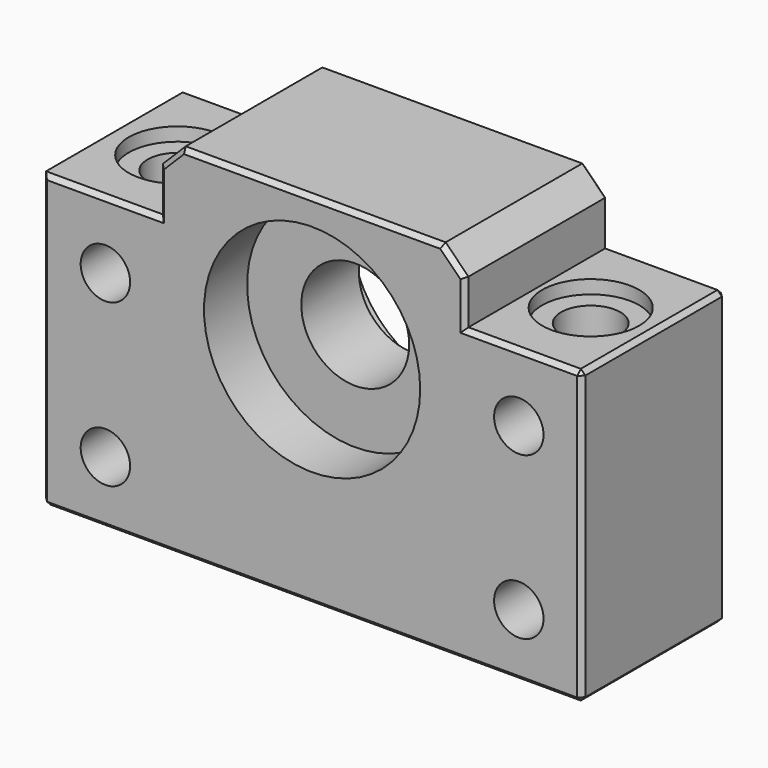
from build123d import *

# Parameters (mm, degrees)
F1_DEPTH  = 20
F2_R      = 6
F2_R_2    = 2.75
F3_DEPTH  = 20.001
F4_R      = 5.4
F5_DEPTH  = 1.5
F6_R      = 3.3
F7_DEPTH  = 31.001
F8_R      = 12.0269
F9_DEPTH  = 6
F10_R     = 11.6713
F11_DEPTH = 6
F12_SIZE  = 2.54
F13_SIZE  = 0.5


with BuildPart() as f1:
    # F0 (on Front) → F1 (new body)
    with BuildSketch(Plane.XZ):
        Polygon((-30, -16.25), (30, -16.25), (30, 16.25), (17, 16.25), (17, 23.75), (-17, 23.75), (-17, 16.25), (-30, 16.25), align=None)
    extrude(amount=F1_DEPTH)

    # F2 (on face) → F3 (cut, through all)
    with BuildSketch(Plane.XZ.offset(20)):
        with Locations((0, 8.75)):
            Circle(F2_R)
        with Locations((-23, 8.75)):
            Circle(F2_R_2)
        with Locations((-23, -9.25)):
            Circle(F2_R_2)
        with Locations((23, 8.75)):
            Circle(F2_R_2)
        with Locations((23, -9.25)):
            Circle(F2_R_2)
    extrude(amount=-F3_DEPTH, mode=Mode.SUBTRACT)

    # F4 (on face) → F5 (cut)
    with BuildSketch(Plane.XY.offset(16.25)):
        with Locations((-23, -10)):
            Circle(F4_R)
        with Locations((23, -10)):
            Circle(F4_R)
    extrude(amount=-F5_DEPTH, mode=Mode.SUBTRACT)

    # F6 (on face) → F7 (cut, through all)
    with BuildSketch(Plane.XY.offset(14.75)):
        with Locations((-23, -10)):
            Circle(F6_R)
        with Locations((23, -10)):
            Circle(F6_R)
    extrude(amount=-F7_DEPTH, mode=Mode.SUBTRACT)

    # F8 (on face) → F9 (cut)
    with BuildSketch(Plane.XZ.offset(20)):
        with Locations((0, 8.75)):
            Circle(F8_R)
    extrude(amount=-F9_DEPTH, mode=Mode.SUBTRACT)

    # F10 (on face) → F11 (cut)
    with BuildSketch(Plane(origin=(0, 0, 0), x_dir=(-1, 0, 0), z_dir=(0, 1, 0))):
        with Locations((0, 8.75)):
            Circle(F10_R)
    extrude(amount=-F11_DEPTH, mode=Mode.SUBTRACT)

    # F12
    f12_edges = [f1.edges().sort_by_distance(p)[0] for p in [
        (17, -10, 23.75),
        (-17, -10, 23.75),
    ]]
    chamfer(f12_edges, length=F12_SIZE)

    # F13
    f13_edges = [f1.edges().sort_by_distance(p)[0] for p in [
        (23.5, 0, 16.25),
        (17, 0, 18.73),
        (15.73, 0, 22.48),
        (0, 0, 23.75),
        (-15.73, 0, 22.48),
        (-17, 0, 18.73),
        (-23.5, 0, 16.25),
        (-30, 0, 0),
        (0, 0, -16.25),
        (30, 0, 0),
        (30, -10, 16.25),
        (30, -20, 0),
        (30, -10, -16.25),
        (23.5, -20, 16.25),
        (17, -20, 18.73),
        (15.73, -20, 22.48),
        (0, -20, 23.75),
        (-15.73, -20, 22.48),
        (-17, -20, 18.73),
        (-23.5, -20, 16.25),
        (-30, -20, 0),
        (-30, -10, -16.25),
        (0, -20, -16.25),
    ]]
    chamfer(f13_edges, length=F13_SIZE)


solid = f1.part
